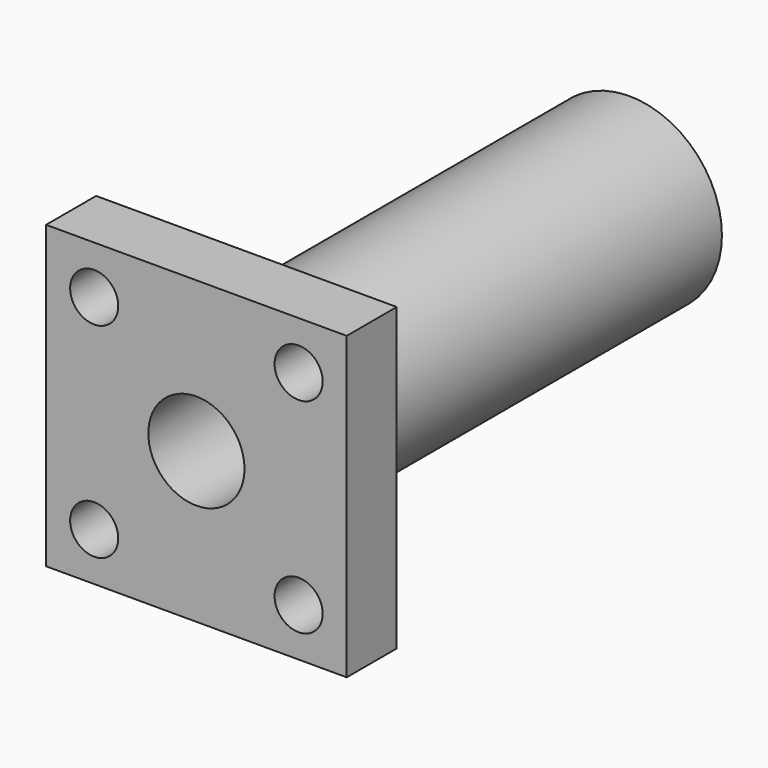
from build123d import *

# Parameters (mm, degrees)
CYLINDER166_R          = 2
CYLINDER166_DEPTH      = 10
CYLINDER168_R          = 2
CYLINDER168_DEPTH      = 10
CYLINDER163_R          = 2
CYLINDER163_DEPTH      = 10
CYLINDER164_R          = 2
CYLINDER164_DEPTH      = 10
CYLINDER167_R          = 4
CYLINDER167_DEPTH      = 60
CYLINDER165_R          = 7.7
CYLINDER165_DEPTH      = 40
BOX070_W               = 25
BOX070_H               = 25
BOX070_DEPTH           = 5.2
CUT153_PLACEMENT_ANGLE = 90


with BuildPart() as cylinder166:
    # Cylinder166 → Cylinder166 (new body)
    with BuildSketch(Plane(origin=(21, 21, -2), x_dir=(1, 0, 0), z_dir=(0, 0, 1))):
        Circle(CYLINDER166_R)
    extrude(amount=CYLINDER166_DEPTH)


with BuildPart() as cylinder168:
    # Cylinder168 → Cylinder168 (new body)
    with BuildSketch(Plane(origin=(21, 4, -2), x_dir=(1, 0, 0), z_dir=(0, 0, 1))):
        Circle(CYLINDER168_R)
    extrude(amount=CYLINDER168_DEPTH)


with BuildPart() as cylinder163:
    # Cylinder163 → Cylinder163 (new body)
    with BuildSketch(Plane(origin=(4, 21, -2), x_dir=(1, 0, 0), z_dir=(0, 0, 1))):
        Circle(CYLINDER163_R)
    extrude(amount=CYLINDER163_DEPTH)


with BuildPart() as cylinder164:
    # Cylinder164 → Cylinder164 (new body)
    with BuildSketch(Plane(origin=(4, 4, -2), x_dir=(1, 0, 0), z_dir=(0, 0, 1))):
        Circle(CYLINDER164_R)
    extrude(amount=CYLINDER164_DEPTH)


with BuildPart() as cylinder167:
    # Cylinder167 → Cylinder167 (new body)
    with BuildSketch(Plane(origin=(12.5, 12.5, -7), x_dir=(1, 0, 0), z_dir=(0, 0, 1))):
        Circle(CYLINDER167_R)
    extrude(amount=CYLINDER167_DEPTH)


with BuildPart() as cylinder165:
    # Cylinder165 → Cylinder165 (new body)
    with BuildSketch(Plane(origin=(12.5, 12.5, 5), x_dir=(1, 0, 0), z_dir=(0, 0, 1))):
        Circle(CYLINDER165_R)
    extrude(amount=CYLINDER165_DEPTH)


with BuildPart() as cut153:
    # Box070 → Box070 (new body)
    with BuildSketch(Plane.XY):
        with Locations((12.5, 12.5)):
            Rectangle(BOX070_W, BOX070_H)
    extrude(amount=BOX070_DEPTH)

    # Fusion083: union Cylinder165
    add(cylinder165.part)

    # Cut152: cut Cylinder167
    add(cylinder167.part, mode=Mode.SUBTRACT)

    # Cut154: cut Cylinder164
    add(cylinder164.part, mode=Mode.SUBTRACT)

    # Cut151: cut Cylinder163
    add(cylinder163.part, mode=Mode.SUBTRACT)

    # Cut150: cut Cylinder168
    add(cylinder168.part, mode=Mode.SUBTRACT)

    # Cut153: cut Cylinder166
    add(cylinder166.part, mode=Mode.SUBTRACT)


with BuildPart() as cut153_1:
    # Cut153 placement: moved
    add(cut153.part.moved(Location((91, 156.8, 67.6))).rotate(Axis((91, 156.8, 67.6), (-1, 0, 0)), CUT153_PLACEMENT_ANGLE))


solid = cut153_1.part
